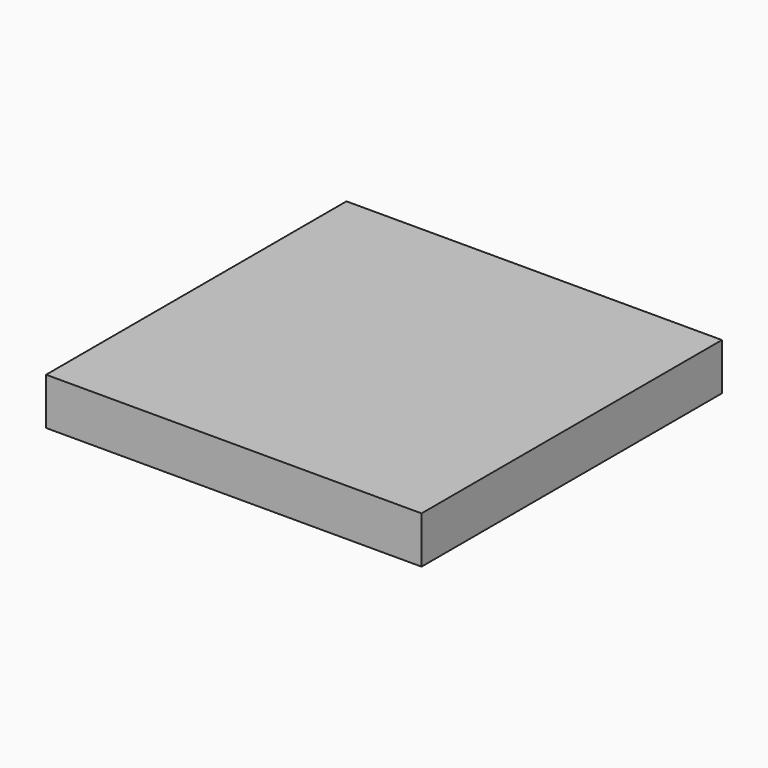
from build123d import *

# Parameters (mm, degrees)
SKETCH_W      = 40
SKETCH_H      = 40
EXTRUDE_DEPTH = 5


with BuildPart() as part:
    # Sketch → Extrude (new body)
    with BuildSketch(Plane.XY):
        with Locations((11.623656, 10.531471)):
            Rectangle(SKETCH_W, SKETCH_H)
    extrude(amount=EXTRUDE_DEPTH)


solid = part.part
